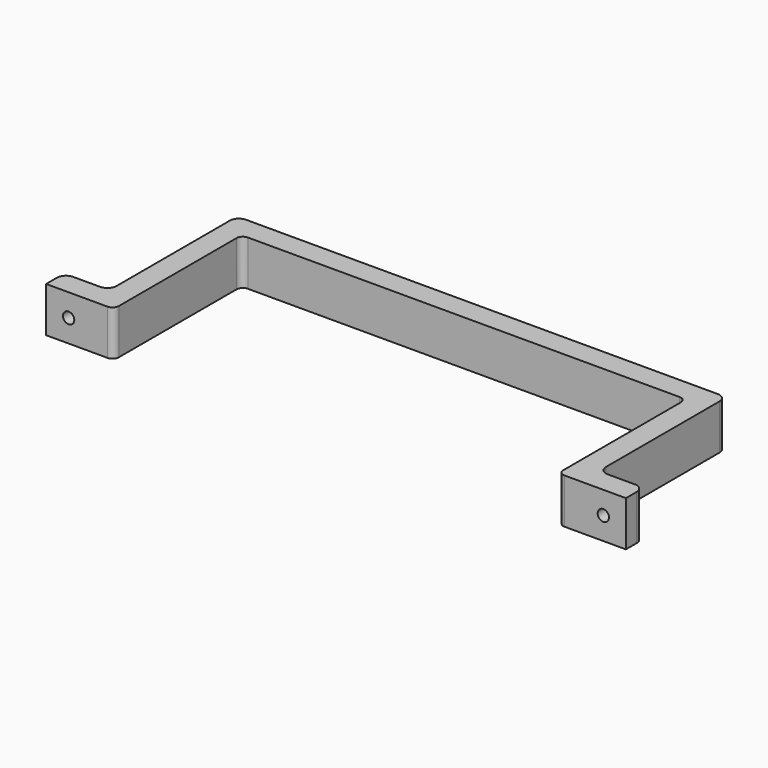
from build123d import *

# Parameters (mm, degrees)
F1_DEPTH = 12.7
F3_R     = 1.5875
F4_DEPTH = 25.4
F2_R     = 1.5875
F5_DEPTH = 25.4
F6_R     = 2.54
F7_R     = 1.778


with BuildPart() as f1:
    # F0 (on Top) → F1 (new body)
    with BuildSketch(Plane.XY):
        Polygon((-62.5348, 0), (0, 0), (62.5348, 0), (62.5348, -44.958), (81.5848, -44.958), (81.5848, -38.608), (68.8848, -38.608), (68.8848, 0), (68.8848, 6.35), (0, 6.35), (-68.8848, 6.35), (-68.8848, 0), (-68.8848, -38.608), (-81.5848, -38.608), (-81.5848, -44.958), (-62.5348, -44.958), align=None)
    extrude(amount=F1_DEPTH)

    # F3 (on face) → F4 (cut)
    with BuildSketch(Plane(origin=(0, -38.608, 0), x_dir=(-1, 0, 0), z_dir=(0, 1, 0))):
        with Locations((75.2348, 6.35)):
            Circle(F3_R)
    extrude(amount=-F4_DEPTH, mode=Mode.SUBTRACT)

    # F2 (on face) → F5 (cut)
    with BuildSketch(Plane(origin=(0, -38.608, 0), x_dir=(-1, 0, 0), z_dir=(0, 1, 0))):
        with Locations((-75.2348, 6.35)):
            Circle(F2_R)
    extrude(amount=-F5_DEPTH, mode=Mode.SUBTRACT)

    # F6
    f6_edges = [f1.edges().sort_by_distance(p)[0] for p in [
        (81.5848, -38.608, 6.35),
        (68.8848, 6.35, 6.35),
        (68.8848, -38.608, 6.35),
        (-68.8848, 6.35, 6.35),
        (-68.8848, -38.608, 6.35),
        (-81.5848, -38.608, 6.35),
    ]]
    fillet(f6_edges, radius=F6_R)

    # F7
    f7_edges = [f1.edges().sort_by_distance(p)[0] for p in [
        (62.5348, 0, 6.35),
        (-62.5348, 0, 6.35),
        (-62.5348, -44.958, 6.35),
        (62.5348, -44.958, 6.35),
    ]]
    fillet(f7_edges, radius=F7_R)


solid = f1.part
